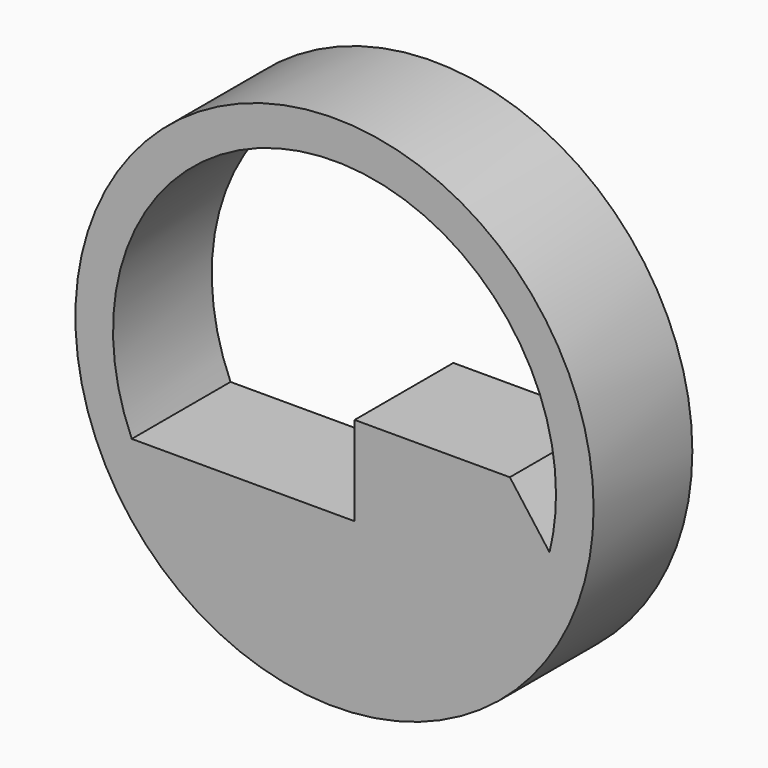
from build123d import *

# Parameters (mm, degrees)
F0_R     = 53.326365
F1_DEPTH = 25.4


with BuildPart() as f1:
    # F0 (on Front) → F1 (new body)
    with BuildSketch(Plane.XZ):
        Circle(F0_R)
        with BuildLine():
            ThreePointArc((-41.723978, -18.358385), (-9.379922, 44.608718), (45.584215, 0))
            ThreePointArc((45.584215, 0), (45.249769, -5.511714), (44.251341, -10.94255))
            ThreePointArc((44.251341, -10.94255), (3.917339, -45.415582), (-41.723978, -18.358385))
        make_face(mode=Mode.SUBTRACT)
        with BuildLine():
            Line((4.138893, -18.358385), (-41.723978, -18.358385))
            ThreePointArc((-41.723978, -18.358385), (3.917339, -45.415582), (44.251341, -10.94255))
            Line((44.251341, -10.94255), (36.085591, 0))
            Line((36.085591, 0), (4.138893, 0))
            Line((4.138893, 0), (4.138893, -18.358385))
        make_face()
    extrude(amount=F1_DEPTH)


solid = f1.part
